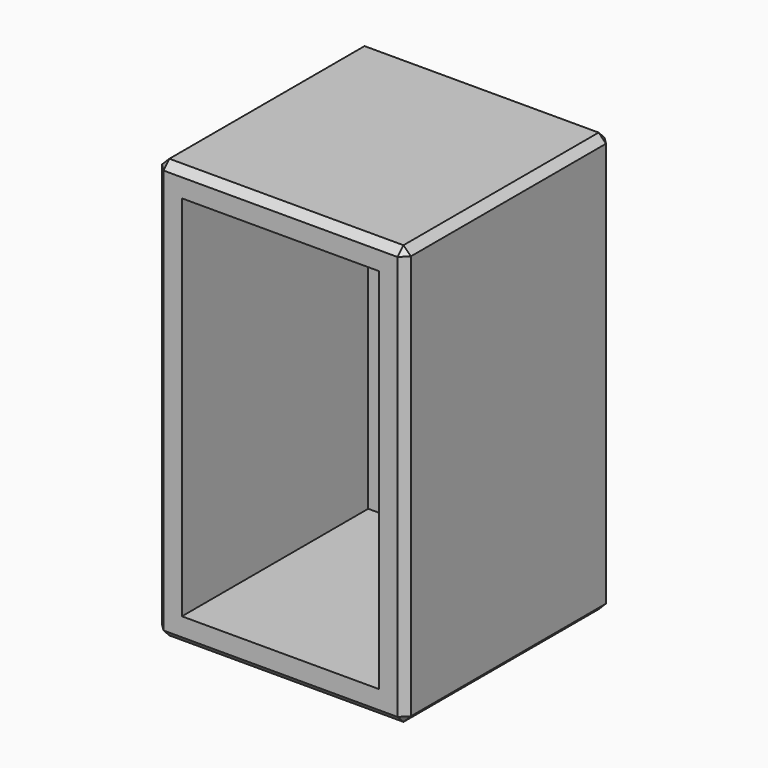
from build123d import *

# Parameters (mm, degrees)
F0_W     = 171.114452
F0_H     = 177.886084
F1_DEPTH = 288.544
F2_T     = -17.78
F3_SIZE  = 5.08


with BuildPart() as f1:
    # F0 (on Top) → F1 (new body)
    with BuildSketch(Plane.XY):
        with Locations((-8.802969, -11.831455)):
            Rectangle(F0_W, F0_H)
    extrude(amount=F1_DEPTH)

    # F2
    f2_openings = [f1.faces().sort_by_distance(p)[0] for p in [
        (-8.802969, -100.774497, 144.272),
    ]]
    offset(amount=F2_T, openings=f2_openings)

    # F3
    f3_edges = [f1.edges().sort_by_distance(p)[0] for p in [
        (-8.802969, -100.774497, 288.544),
        (76.754257, -11.831455, 288.544),
        (-8.802969, 77.111587, 288.544),
        (-94.360195, -11.831455, 288.544),
        (-94.360195, 77.111587, 144.272),
        (76.754257, 77.111587, 144.272),
        (76.754257, -100.774497, 144.272),
        (-94.360195, -100.774497, 144.272),
        (-94.360195, -11.831455, 0),
        (-8.802969, -100.774497, 0),
        (76.754257, -11.831455, 0),
        (-8.802969, 77.111587, 0),
    ]]
    chamfer(f3_edges, length=F3_SIZE)


solid = f1.part
